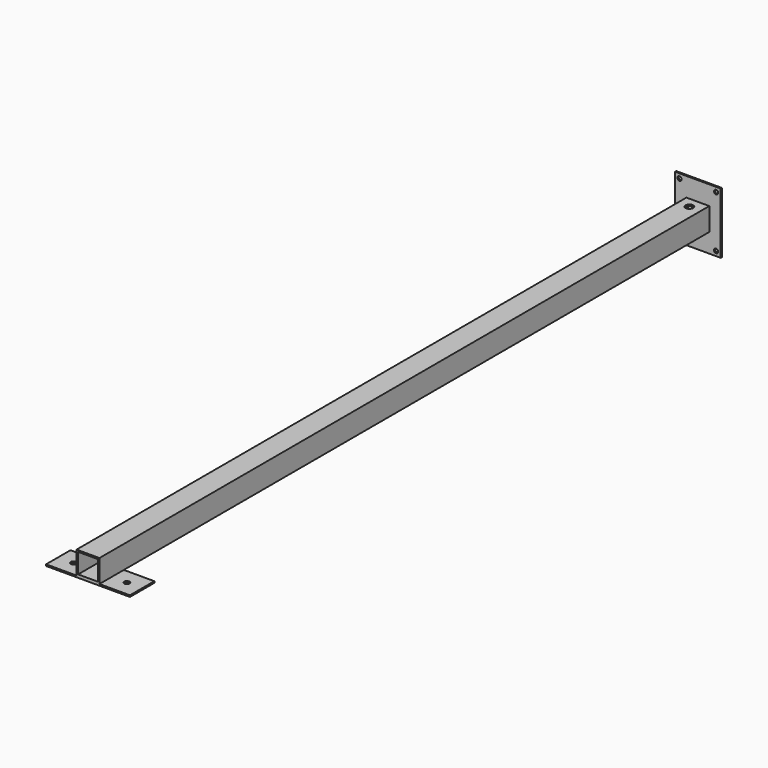
from build123d import *

# Parameters (mm, degrees)
F0_W     = 60
F0_H     = 80
F0_R     = 2.75
F1_DEPTH = 2
F2_W     = 30
F2_H     = 30
F2_W_2   = 26
F2_H_2   = 26
F3_DEPTH = 1002
F4_R     = 5
F5_DEPTH = 5
F6_W     = 40
F6_H     = 40
F6_R     = 3.5
F6_W_2   = 30
F7_DEPTH = 2
F6_R_2   = 5
F8_DEPTH = 5


with BuildPart() as f1:
    # F0 (on Front) → F1 (new body)
    with BuildSketch(Plane.XZ):
        Rectangle(F0_W, F0_H)
        with Locations((-24, -34)):
            Circle(F0_R, mode=Mode.SUBTRACT)
        with Locations((24, -34)):
            Circle(F0_R, mode=Mode.SUBTRACT)
        with Locations((-24, 34)):
            Circle(F0_R, mode=Mode.SUBTRACT)
        with Locations((24, 34)):
            Circle(F0_R, mode=Mode.SUBTRACT)
    extrude(amount=F1_DEPTH)

    # F2 (on Front) → F3 (join)
    with BuildSketch(Plane.XZ):
        Rectangle(F2_W, F2_H)
        Rectangle(F2_W_2, F2_H_2, mode=Mode.SUBTRACT)
    extrude(amount=F3_DEPTH)

    # F4 (on face) → F5 (cut)
    with BuildSketch(Plane.XY.offset(15)):
        with Locations((0, -15.7746840268)):
            Circle(F4_R)
    extrude(amount=-F5_DEPTH, mode=Mode.SUBTRACT)

    # F6 (on face) → F7 (join)
    with BuildSketch(Plane(origin=(0, 0, -15), x_dir=(1, 0, 0), z_dir=(0, 0, -1))):
        with Locations((35, 982)):
            Rectangle(F6_W, F6_H)
        with Locations((35, 982)):
            Circle(F6_R, mode=Mode.SUBTRACT)
        with Locations((0, 982)):
            Rectangle(F6_W_2, F6_H)
        with Locations((-35, 982)):
            Rectangle(F6_W, F6_H)
        with Locations((-34.9994153271, 982.2861011526)):
            Circle(F6_R, mode=Mode.SUBTRACT)
    extrude(amount=F7_DEPTH)

    # F6 (on face) → F8 (cut)
    with BuildSketch(Plane(origin=(0, 0, -15), x_dir=(1, 0, 0), z_dir=(0, 0, -1))):
        with Locations((0, 939.2803311348)):
            Circle(F6_R_2)
    extrude(amount=-F8_DEPTH, mode=Mode.SUBTRACT)


solid = f1.part
